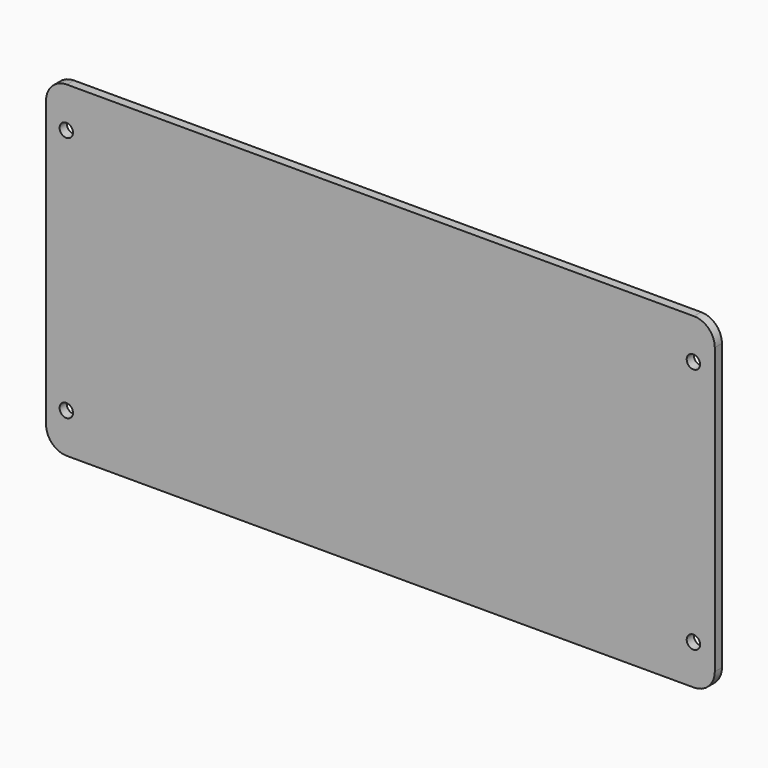
from build123d import *

# Parameters (mm, degrees)
CYLINDER007_R     = 2.25
CYLINDER007_DEPTH = 3
CYLINDER006_R     = 2.25
CYLINDER006_DEPTH = 3
CYLINDER005_R     = 2.25
CYLINDER005_DEPTH = 3
CYLINDER_R        = 2.25
CYLINDER_DEPTH    = 3
BOX_W             = 225
BOX_H             = 3
BOX_DEPTH         = 110
FILLET_R          = 7


with BuildPart() as cylinder007:
    # Cylinder007 → Cylinder007 (new body)
    with BuildSketch(Plane(origin=(217.8, -18, 13.4), x_dir=(1, 0, 0), z_dir=(0, -1, 0))):
        Circle(CYLINDER007_R)
    extrude(amount=CYLINDER007_DEPTH)


with BuildPart() as fusion005:
    # Cylinder006 → Cylinder006 (new body)
    with BuildSketch(Plane(origin=(217.8, -18, 96.4), x_dir=(1, 0, 0), z_dir=(0, -1, 0))):
        Circle(CYLINDER006_R)
    extrude(amount=CYLINDER006_DEPTH)

    # Fusion005: union Cylinder007
    add(cylinder007.part)


with BuildPart() as cylinder005:
    # Cylinder005 → Cylinder005 (new body)
    with BuildSketch(Plane(origin=(6.8, -18, 96.4), x_dir=(1, 0, 0), z_dir=(0, -1, 0))):
        Circle(CYLINDER005_R)
    extrude(amount=CYLINDER005_DEPTH)


with BuildPart() as screw_holes:
    # Cylinder → Cylinder (new body)
    with BuildSketch(Plane(origin=(6.8, -18, 13.4), x_dir=(1, 0, 0), z_dir=(0, -1, 0))):
        Circle(CYLINDER_R)
    extrude(amount=CYLINDER_DEPTH)

    # Fusion004: union Cylinder005
    add(cylinder005.part)

    # Fusion006: union Fusion005
    add(fusion005.part)


with BuildPart() as screw_holes_1:
    # Fusion006 placement: moved
    add(screw_holes.part.moved(Location((0, 21, 0))))


with BuildPart() as cut009:
    # Box → Box (new body)
    with BuildSketch(Plane.XY):
        with Locations((112.5, 1.5)):
            Rectangle(BOX_W, BOX_H)
    extrude(amount=BOX_DEPTH)

    # Fillet
    fillet_edges = [cut009.edges().sort_by_distance(p)[0] for p in [
        (0, 1.5, 110),
        (0, 1.5, 0),
        (225, 1.5, 110),
        (225, 1.5, 0),
    ]]
    fillet(fillet_edges, radius=FILLET_R)

    # Cut009: cut Screw Holes
    add(screw_holes_1.part, mode=Mode.SUBTRACT)


solid = cut009.part
